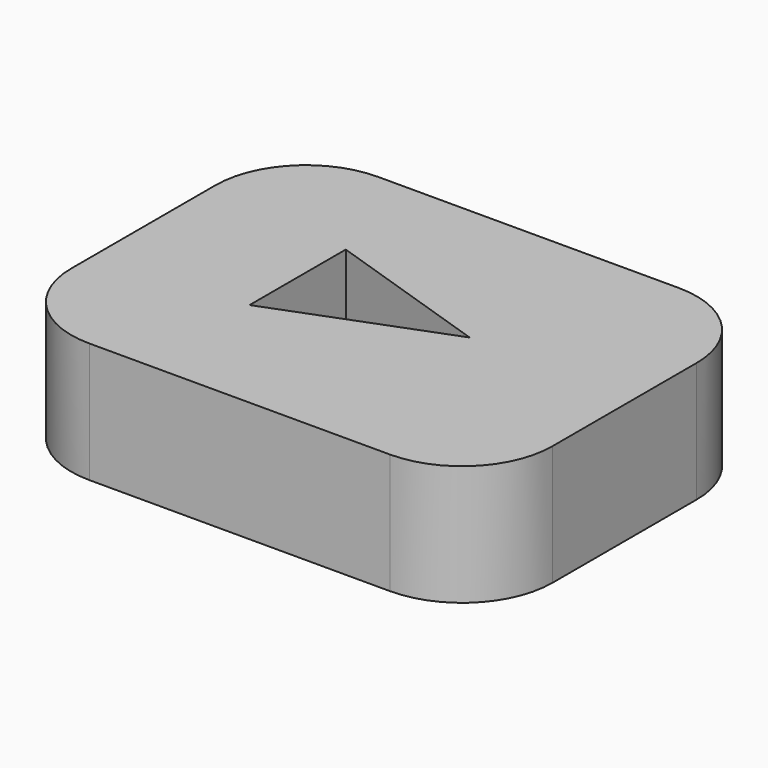
from build123d import *

# Parameters (mm, degrees)
F1_DEPTH = 25.4
F2_R     = 19.05
F4_DEPTH = 254


with BuildPart() as f1:
    # F0 (on Top) → F1 (new body)
    with BuildSketch(Plane.XY):
        Polygon((-50.8, 0), (0, 0), (50.8, 0), (50.8, 76.2), (-50.8, 76.2), align=None)
    extrude(amount=F1_DEPTH)

    # F2
    f2_edges = [f1.edges().sort_by_distance(p)[0] for p in [
        (-50.8, 0, 12.7),
        (50.8, 0, 12.7),
        (-50.8, 76.2, 12.7),
        (50.8, 76.2, 12.7),
    ]]
    fillet(f2_edges, radius=F2_R)

    # F3 (on face) → F4 (cut)
    with BuildSketch(Plane.XY.offset(25.4)):
        Polygon((-19.6837, 52.613977), (-19.6837, 27.213977), (15.896244, 40.840335), align=None)
    extrude(amount=-F4_DEPTH, mode=Mode.SUBTRACT)


solid = f1.part
